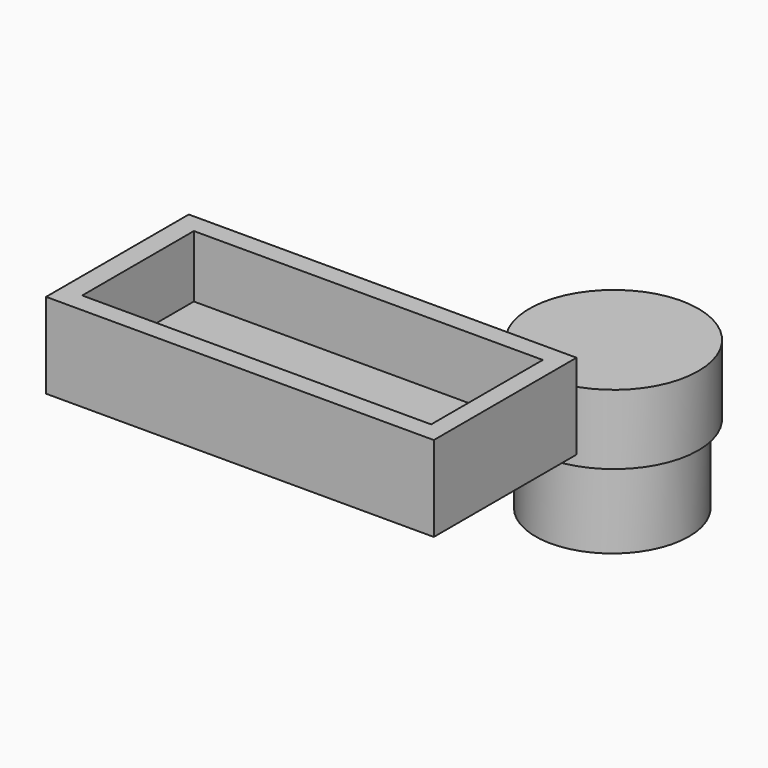
from build123d import *

# Parameters (mm, degrees)
F0_R      = 10.9
F2_R      = 1
F4_DEPTH  = 9
F6_R      = 9.9
F6_R_2    = 8.4
F7_DEPTH  = 10
F0_W      = 50
F0_H      = 23
F0_W_2    = 45
F0_H_2    = 18
F9_DEPTH  = 11
F10_DEPTH = 3


with BuildPart() as f3:
    # F0 (on Top) → F3 section 0
    with BuildSketch(Plane.XY):
        with Locations((-26.668137, 4.661598)):
            Circle(F0_R)
    # F2 (on offset) → F3 section 1
    with BuildSketch(Plane.XY.offset(-2)):
        with Locations((-26.668137, 4.342747)):
            Circle(F2_R)
    loft()

    # F0 (on Top) → F4 (join)
    with BuildSketch(Plane.XY):
        with Locations((-26.668137, 4.661598)):
            Circle(F0_R)
    extrude(amount=-F4_DEPTH)

    # F6 (on offset) → F7 (join)
    with BuildSketch(Plane.XY.offset(-9)):
        with Locations((-26.668137, 4.403152)):
            Circle(F6_R)
        with Locations((-26.668137, 4.403152)):
            Circle(F6_R_2, mode=Mode.SUBTRACT)
    extrude(amount=-F7_DEPTH)


with BuildPart() as f9:
    # F0 (on Top) → F9 (new body)
    with BuildSketch(Plane.XY):
        with Locations((-38.977189, -28.72632)):
            Rectangle(F0_W, F0_H)
        with Locations((-38.820968, -28.72632)):
            Rectangle(F0_W_2, F0_H_2, mode=Mode.SUBTRACT)
    extrude(amount=F9_DEPTH)

    # F0 (on Top) → F10 (join)
    with BuildSketch(Plane.XY):
        with Locations((-38.820968, -28.72632)):
            Rectangle(F0_W_2, F0_H_2)
    extrude(amount=F10_DEPTH)


solid = Compound([f3.part, f9.part])
